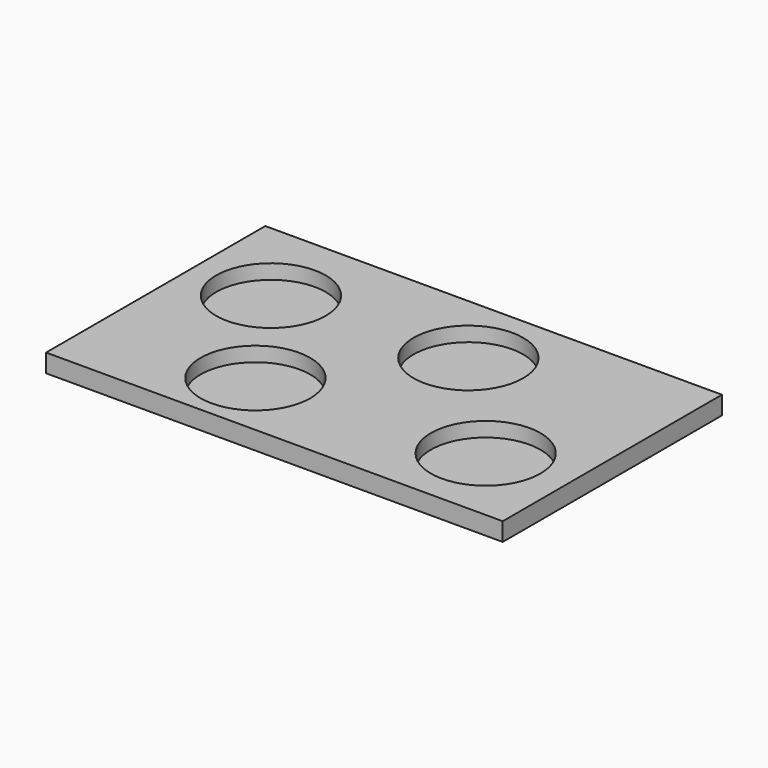
from build123d import *

# Parameters (mm, degrees)
F0_W     = 50
F0_H     = 30
F1_DEPTH = 2
F2_R     = 6
F3_DEPTH = 1.6


with BuildPart() as f1:
    # F0 (on Top) → F1 (new body)
    with BuildSketch(Plane.XY):
        Rectangle(F0_W, F0_H)
    extrude(amount=-F1_DEPTH)

    # F2 (on Top) → F3 (cut)
    with BuildSketch(Plane.XY):
        with Locations((-16.571492, 5.240558)):
            Circle(F2_R)
        with Locations((-8.073293, -7.506745)):
            Circle(F2_R)
        with Locations((3.824304, 6.768263)):
            Circle(F2_R)
        with Locations((16.004946, -6.090378)):
            Circle(F2_R)
    extrude(amount=-F3_DEPTH, mode=Mode.SUBTRACT)


solid = f1.part
